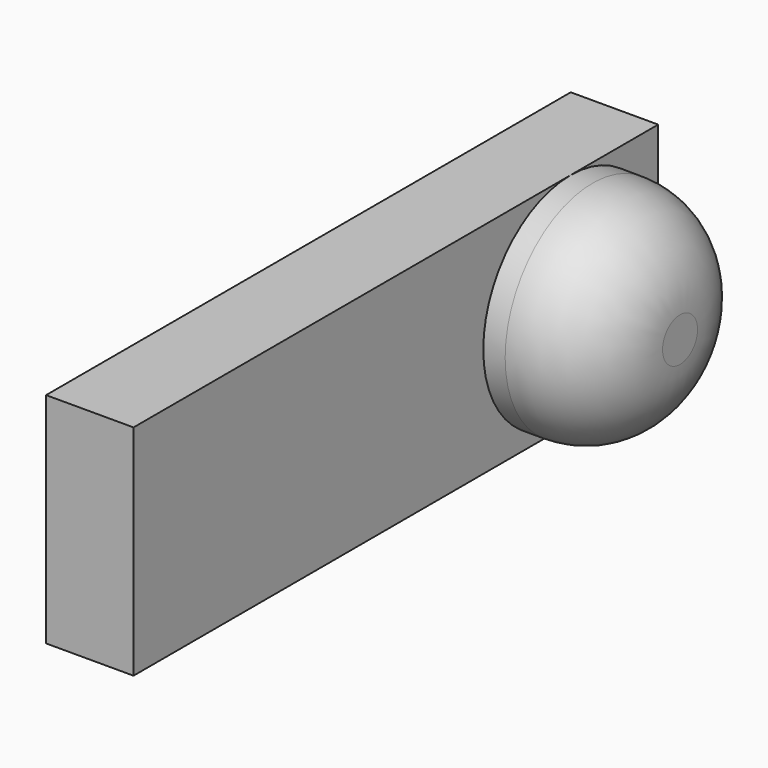
from build123d import *

# Parameters (mm, degrees)
SKETCH019_W             = 6
SKETCH019_H             = 2
PAD002_DEPTH            = 0.8
SKETCH020_R             = 1
PAD003_DEPTH            = 1
FILLET002_R             = 0.8
BODY006_PLACEMENT_ANGLE = 180


with BuildPart() as part:
    # Sketch019 → Pad002 (new body)
    with BuildSketch(Plane(origin=(-3, 16, 14), x_dir=(0, -1, 0), z_dir=(1, 0, 0))):
        with Locations((3, 1)):
            Rectangle(SKETCH019_W, SKETCH019_H)
    extrude(amount=PAD002_DEPTH)

    # Sketch020 (on Face5 of Pad002) → Pad003 (join)
    with BuildSketch(Plane(origin=(-3, 0, 0), x_dir=(0, 1, 0), z_dir=(-1, 0, 0))):
        with Locations((11, -13)):
            Circle(SKETCH020_R)
    extrude(amount=PAD003_DEPTH)

    # Fillet002
    fillet002_edges = [part.edges().sort_by_distance(p)[0] for p in [
        (-4, 10, 13),
    ]]
    fillet(fillet002_edges, radius=FILLET002_R)


with BuildPart() as part_1:
    # Body002 placement: moved
    add(part.part.moved(Location((-16, 0, 0))))


with BuildPart() as part_2:
    # Body006 placement: moved
    add(part_1.part.moved(Location((27.5, 21.1, -6))).rotate(Axis((27.5, 21.1, -6), (0, 0, 1)), BODY006_PLACEMENT_ANGLE))


solid = part_2.part
